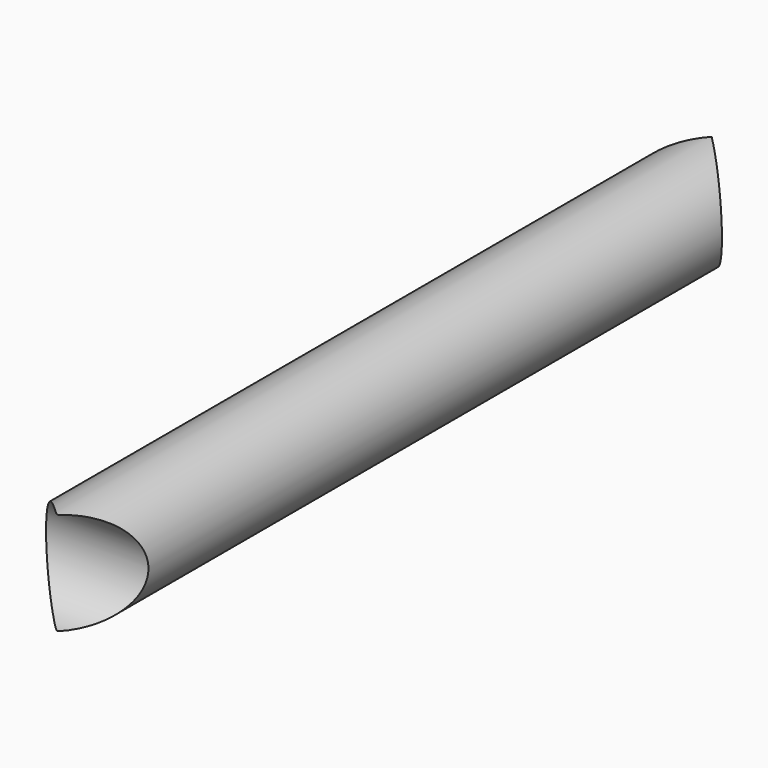
from build123d import *

# Parameters (mm, degrees)
F0_R      = 12.7
F1_DEPTH  = 203.2
F5_R      = 12.7
F6_DEPTH  = 127
F10_R     = 12.704389
F11_DEPTH = 127


with BuildPart() as f1:
    # F0 (on Front) → F1 (new body)
    with BuildSketch(Plane.XZ):
        Circle(F0_R)
    extrude(amount=F1_DEPTH)

    # F5 (on face) → F6 (cut)
    with BuildSketch(Plane.YZ.offset(-12.7)):
        Circle(F5_R)
    extrude(amount=F6_DEPTH, mode=Mode.SUBTRACT)

    # F10 (on face) → F11 (cut)
    with BuildSketch(Plane(origin=(-12.7, 0, 0), x_dir=(0, -1, 0), z_dir=(-1, 0, 0))):
        with Locations((203.26522, 0)):
            Circle(F10_R)
    extrude(amount=-F11_DEPTH, mode=Mode.SUBTRACT)


solid = f1.part
